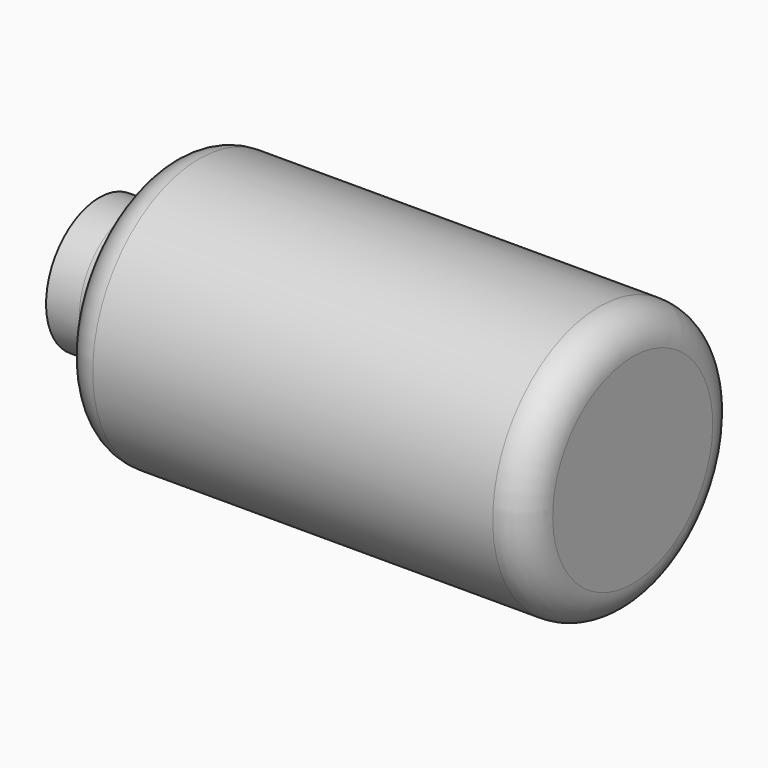
from build123d import *


with BuildPart() as f1:
    # F0 (on Front) → F1 (revolve)
    with BuildSketch(Plane.XZ):
        with BuildLine():
            Line((-101.6, 0), (0, 0))
            Line((0, 0), (0, 19.05))
            ThreePointArc((0, 19.05), (-1.859872, 23.540128), (-6.35, 25.4))
            Line((-6.35, 25.4), (-82.55, 25.4))
            ThreePointArc((-82.55, 25.4), (-87.040128, 23.540128), (-88.9, 19.05))
            ThreePointArc((-88.9, 19.05), (-90.759872, 14.559872), (-95.25, 12.7))
            Line((-95.25, 12.7), (-101.6, 12.7))
            Line((-101.6, 12.7), (-101.6, 0))
        make_face()
    revolve(axis=Axis((-50.8, 0, 0), (-1, 0, 0)))


solid = f1.part
